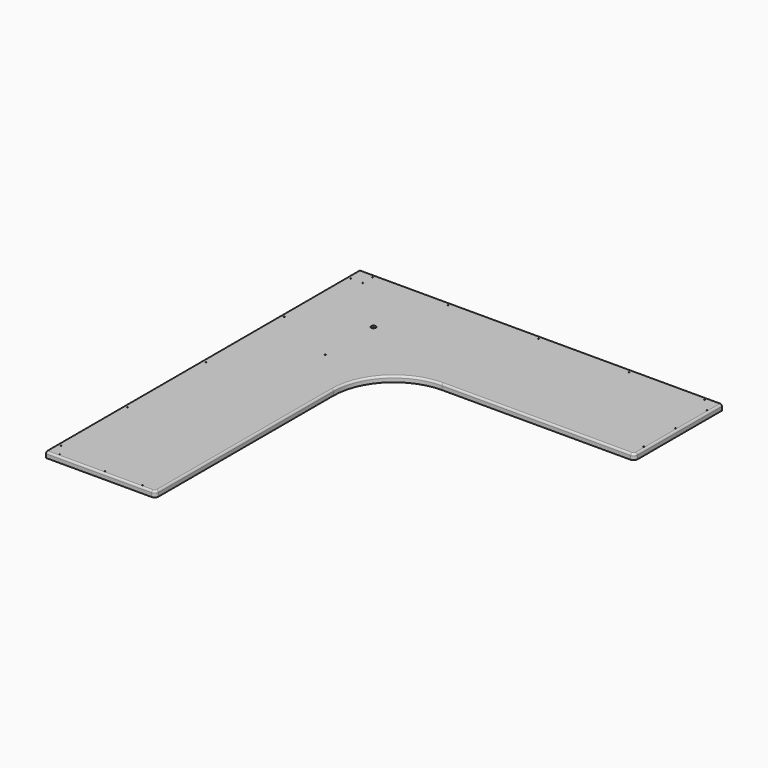
from build123d import *

# Parameters (mm, degrees)
F0_R     = 1.5875
F1_DEPTH = 19.05
F2_R     = 6.35
F3_R     = 7.9375
F4_DEPTH = 6.35


with BuildPart() as f1:
    # F0 (on Top) → F1 (new body)
    with BuildSketch(Plane.XY):
        with BuildLine():
            Line((-571.5, 571.5), (-571.5, -749.3))
            Line((-571.5, -749.3), (-215.9, -749.3))
            ThreePointArc((-215.9, -749.3), (-206.919744, -745.580256), (-203.2, -736.6))
            Line((-203.2, -736.6), (-203.2, 0))
            ThreePointArc((-203.2, 0), (-143.684098, 143.684098), (0, 203.2))
            Line((0, 203.2), (635, 203.2))
            ThreePointArc((635, 203.2), (643.980256, 206.919744), (647.7, 215.9))
            Line((647.7, 215.9), (647.7, 571.5))
            Line((647.7, 571.5), (-571.5, 571.5))
        make_face()
        with Locations((-533.4, -739.775)):
            Circle(F0_R, mode=Mode.SUBTRACT)
        with Locations((-561.975, -698.5)):
            Circle(F0_R, mode=Mode.SUBTRACT)
        with Locations((-381, -739.775)):
            Circle(F0_R, mode=Mode.SUBTRACT)
        with Locations((-561.975, -419.1)):
            Circle(F0_R, mode=Mode.SUBTRACT)
        with Locations((-254, -739.775)):
            Circle(F0_R, mode=Mode.SUBTRACT)
        with Locations((-561.9877, -88.9)):
            Circle(F0_R, mode=Mode.SUBTRACT)
        with Locations((-561.975, 241.3)):
            Circle(F0_R, mode=Mode.SUBTRACT)
        with Locations((-342.9, 139.7)):
            Circle(F0_R, mode=Mode.SUBTRACT)
        with Locations((-342.9, 342.9)):
            Circle(F0_R, mode=Mode.SUBTRACT)
        with Locations((-561.975, 520.7)):
            Circle(F0_R, mode=Mode.SUBTRACT)
        with Locations((-520.7, 520.7)):
            Circle(F0_R, mode=Mode.SUBTRACT)
        with Locations((-520.7, 561.975)):
            Circle(F0_R, mode=Mode.SUBTRACT)
        with Locations((-266.7, 561.975)):
            Circle(F0_R, mode=Mode.SUBTRACT)
        with Locations((38.1, 561.975)):
            Circle(F0_R, mode=Mode.SUBTRACT)
        with Locations((638.175, 254)):
            Circle(F0_R, mode=Mode.SUBTRACT)
        with Locations((638.175, 387.35)):
            Circle(F0_R, mode=Mode.SUBTRACT)
        with Locations((342.9, 561.975)):
            Circle(F0_R, mode=Mode.SUBTRACT)
        with Locations((638.175, 520.7)):
            Circle(F0_R, mode=Mode.SUBTRACT)
        with Locations((596.9, 561.975)):
            Circle(F0_R, mode=Mode.SUBTRACT)
    extrude(amount=-F1_DEPTH)

    # F2
    f2_edges = [f1.edges().sort_by_distance(p)[0] for p in [
        (-393.7, -749.3, 0),
    ]]
    fillet(f2_edges, radius=F2_R)

    # F3 (on face) → F4 (cut)
    with BuildSketch(Plane.XY):
        with Locations((-342.9, 342.9)):
            Circle(F3_R)
    extrude(amount=-F4_DEPTH, mode=Mode.SUBTRACT)


solid = f1.part
